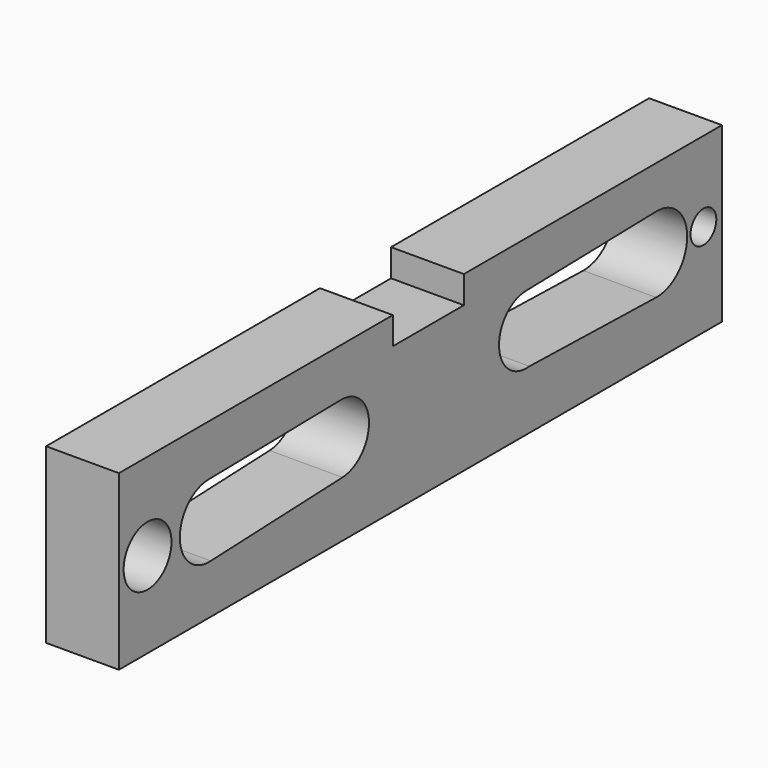
from build123d import *

# Parameters (mm, degrees)
F0_W     = 262.7939805388
F0_H     = 60.3452790529
F1_DEPTH = 25.4
F3_DEPTH = 25.4
F4_W     = 30.9705659747
F4_H     = 9.5640197396
F5_DEPTH = 25.4
F6_R     = 10.4332897986
F6_R_2   = 5.6156262259
F7_DEPTH = 25.4


with BuildPart() as f1:
    # F0 (on Right) → F1 (new body)
    with BuildSketch(Plane.YZ):
        with Locations((42.1361811459, -43.3992138132)):
            Rectangle(F0_W, F0_H)
    extrude(amount=F1_DEPTH)

    # F2 (on face) → F3 (cut)
    with BuildSketch(Plane.YZ.offset(25.4)):
        with BuildLine():
            Line((7.4948265063, -30.0673552864), (-50.0055514276, -31.0259021828))
            ThreePointArc((-50.0055514276, -31.0259021828), (-62.7121802874, -44.1216826763), (-49.2391608491, -56.4276012088))
            Line((-49.2391608491, -56.4276012088), (8.1772062662, -54.1274810899))
            ThreePointArc((8.1772062662, -54.1274810899), (19.7263216343, -41.7601920363), (7.4948265063, -30.0673552864))
        make_face()
        with BuildLine():
            Line((144.9011948523, -28.0890673087), (88.3131250739, -29.3520299082))
            ThreePointArc((88.3131250739, -29.3520299082), (76.3994481978, -41.9242015804), (89.5937708362, -53.1449434175))
            Line((89.5937708362, -53.1449434175), (144.8779408269, -54.4762968558))
            ThreePointArc((144.8779408269, -54.4762968558), (158.3928280128, -41.2945819732), (144.9011948523, -28.0890673087))
        make_face()
    extrude(amount=-F3_DEPTH, mode=Mode.SUBTRACT)

    # F4 (on face) → F5 (cut)
    with BuildSketch(Plane.YZ.offset(25.4)):
        with Locations((45.589402318, -18.0085841566)):
            Rectangle(F4_W, F4_H)
    extrude(amount=-F5_DEPTH, mode=Mode.SUBTRACT)

    # F6 (on face) → F7 (cut)
    with BuildSketch(Plane.YZ.offset(25.4)):
        with Locations((-76.7875984311, -43.6257906258)):
            Circle(F6_R)
        with Locations((165.4747128487, -41.1704294384)):
            Circle(F6_R_2)
    extrude(amount=-F7_DEPTH, mode=Mode.SUBTRACT)


solid = f1.part
